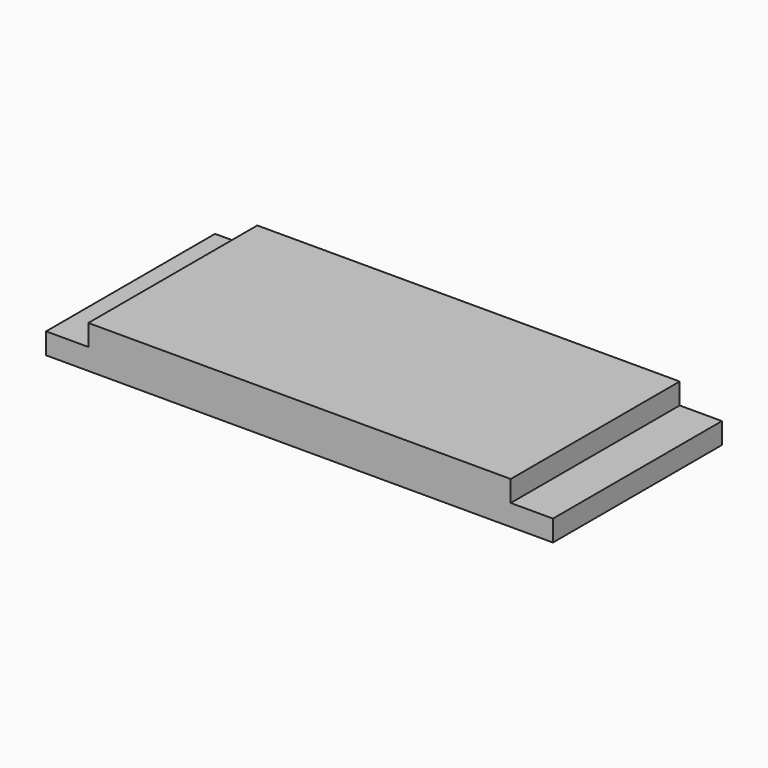
from build123d import *

# Parameters (mm, degrees)
F0_W     = 254
F0_H     = 127
F1_DEPTH = 25.4
F0_W_2   = 25.4
F0_H_2   = 12.7
F2_DEPTH = 12.7
F3_W     = 304.8
F3_H     = 12.7
F4_DEPTH = 25.4


with BuildPart() as f1:
    # F0 (on Top) → F1 (new body)
    with BuildSketch(Plane.XY):
        with Locations((-2.477834, -50.816161)):
            Rectangle(F0_W, F0_H)
    extrude(amount=F1_DEPTH)

    # F0 (on Top) → F2 (join)
    with BuildSketch(Plane.XY):
        with Locations((-142.177834, 19.033839)):
            Rectangle(F0_W_2, F0_H_2)
        with Locations((-2.477834, 19.033839)):
            Rectangle(F0_W, F0_H_2)
        with Locations((-142.177834, -50.816161)):
            Rectangle(F0_W_2, F0_H)
        with Locations((137.222166, 19.033839)):
            Rectangle(F0_W_2, F0_H_2)
        with Locations((-142.177834, -120.666161)):
            Rectangle(F0_W_2, F0_H_2)
        with Locations((137.222166, -50.816161)):
            Rectangle(F0_W_2, F0_H)
        with Locations((-2.477834, -120.666161)):
            Rectangle(F0_W, F0_H_2)
        with Locations((137.222166, -120.666161)):
            Rectangle(F0_W_2, F0_H_2)
    extrude(amount=F2_DEPTH)

    # F3 (on face) → F4 (cut)
    with BuildSketch(Plane(origin=(0, 0, 0), x_dir=(1, 0, 0), z_dir=(0, 0, -1))):
        with Locations((-2.477834, 120.666161)):
            Rectangle(F3_W, F3_H)
        with Locations((-2.477834, -19.033839)):
            Rectangle(F3_W, F3_H)
    extrude(amount=-F4_DEPTH, mode=Mode.SUBTRACT)


solid = f1.part
